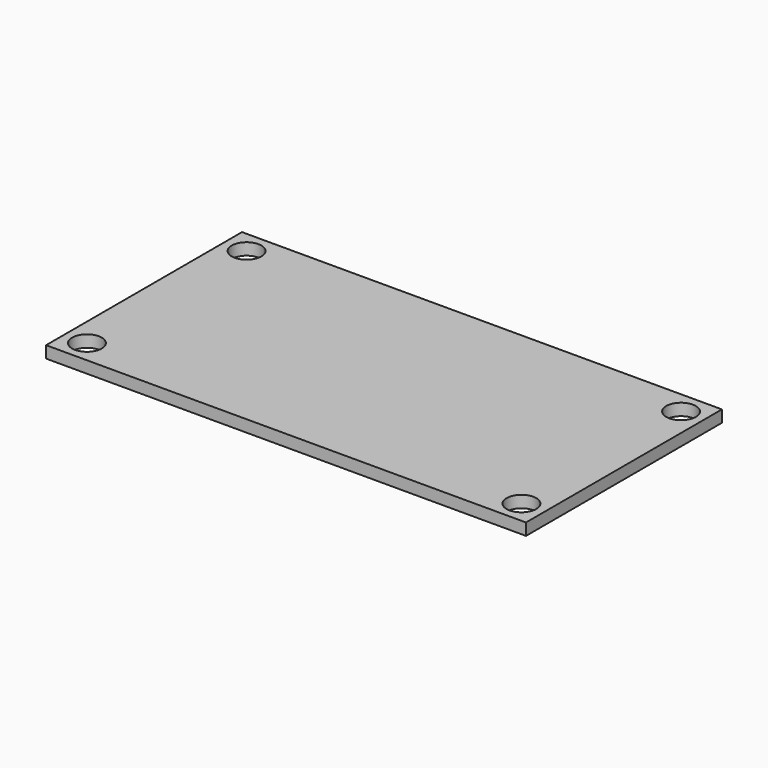
from build123d import *

# Parameters (mm, degrees)
F0_W     = 121.5
F0_H     = 62
F1_DEPTH = 3
F3_D     = 7.5
F5_D     = 7.5
F7_D     = 7.5


with BuildPart() as f1:
    # F0 (on Top) → F1 (new body)
    with BuildSketch(Plane.XY):
        with Locations((1619.258806, -621.851886)):
            Rectangle(F0_W, F0_H)
    extrude(amount=F1_DEPTH)

    # F3 (through all)
    with Locations(Plane.XY.offset(3)):
        with Locations((1564.258806, -647.101886)):
            Hole(F3_D / 2)

    # F5 (through all)
    with Locations(Plane.XY.offset(3)):
        with Locations((1564.258806, -596.601886)):
            Hole(F5_D / 2)

    # F7 (through all)
    with Locations(Plane.XY.offset(3)):
        with Locations((1674.258806, -596.601886), (1674.258806, -647.101886)):
            Hole(F7_D / 2)


solid = f1.part
